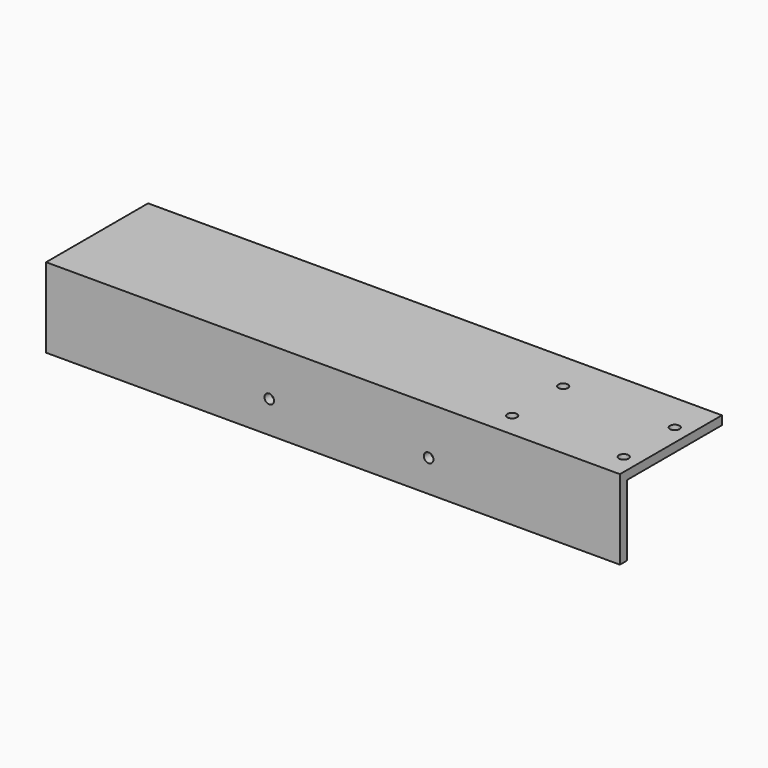
from build123d import *

# Parameters (mm, degrees)
F0_W     = 360
F0_H     = 80
F1_DEPTH = 5.5
F2_W     = 360
F2_H     = 5.5
F3_DEPTH = 44.5
F4_R     = 3
F5_DEPTH = 25
F6_R     = 3
F7_DEPTH = 25


with BuildPart() as f1:
    # F0 (on Top) → F1 (new body)
    with BuildSketch(Plane.XY):
        with Locations((180, 40)):
            Rectangle(F0_W, F0_H)
    extrude(amount=F1_DEPTH)

    # F2 (on face) → F3 (join)
    with BuildSketch(Plane(origin=(0, 0, 0), x_dir=(1, 0, 0), z_dir=(0, 0, -1))):
        with Locations((180, -2.75)):
            Rectangle(F2_W, F2_H)
    extrude(amount=F3_DEPTH)

    # F4 (on face) → F5 (cut)
    with BuildSketch(Plane.XZ):
        with Locations((140, -24.5)):
            Circle(F4_R)
        with Locations((240, -24.5)):
            Circle(F4_R)
    extrude(amount=-F5_DEPTH, mode=Mode.SUBTRACT)

    # F6 (on face) → F7 (cut)
    with BuildSketch(Plane(origin=(0, 0, 0), x_dir=(1, 0, 0), z_dir=(0, 0, -1))):
        with Locations((280, -15.5)):
            Circle(F6_R)
        with Locations((280, -55.5)):
            Circle(F6_R)
        with Locations((350, -55.5)):
            Circle(F6_R)
        with Locations((350, -15.5)):
            Circle(F6_R)
    extrude(amount=-F7_DEPTH, mode=Mode.SUBTRACT)


solid = f1.part
